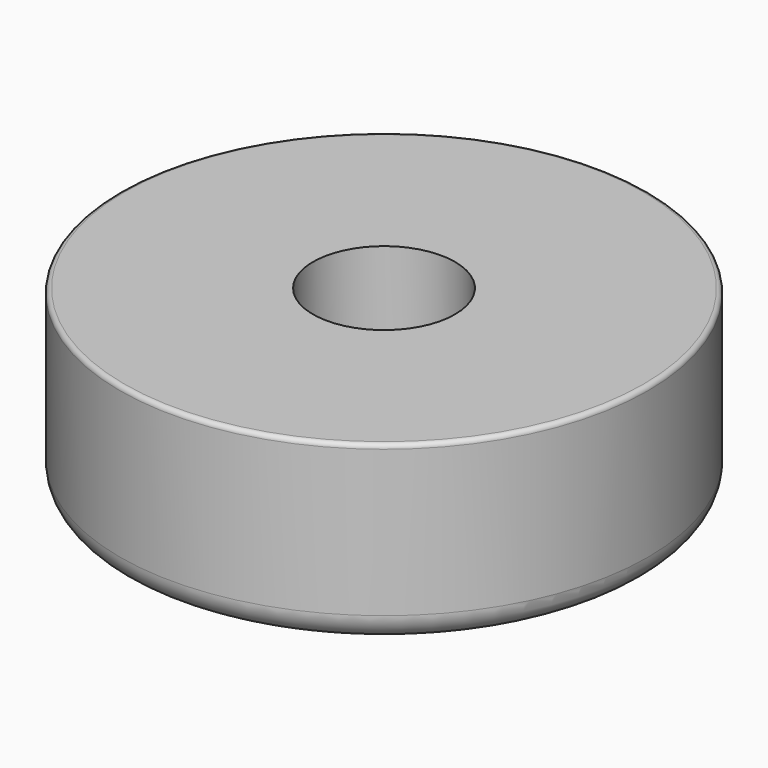
from build123d import *

# Parameters (mm, degrees)
F0_R     = 29.75
F1_DEPTH = 20
F2_R     = 8
F3_DEPTH = 15
F4_R     = 0.5
F5_R     = 3


with BuildPart() as f1:
    # F0 (on Top) → F1 (new body)
    with BuildSketch(Plane.XY):
        Circle(F0_R)
    extrude(amount=F1_DEPTH)

    # F2 (on face) → F3 (cut)
    with BuildSketch(Plane.XY.offset(20)):
        Circle(F2_R)
    extrude(amount=-F3_DEPTH, mode=Mode.SUBTRACT)

    # F4
    f4_edges = [f1.edges().sort_by_distance(p)[0] for p in [
        (-29.75, 0, 20),
    ]]
    fillet(f4_edges, radius=F4_R)

    # F5
    f5_edges = [f1.edges().sort_by_distance(p)[0] for p in [
        (-29.75, 0, 0),
    ]]
    fillet(f5_edges, radius=F5_R)


solid = f1.part
